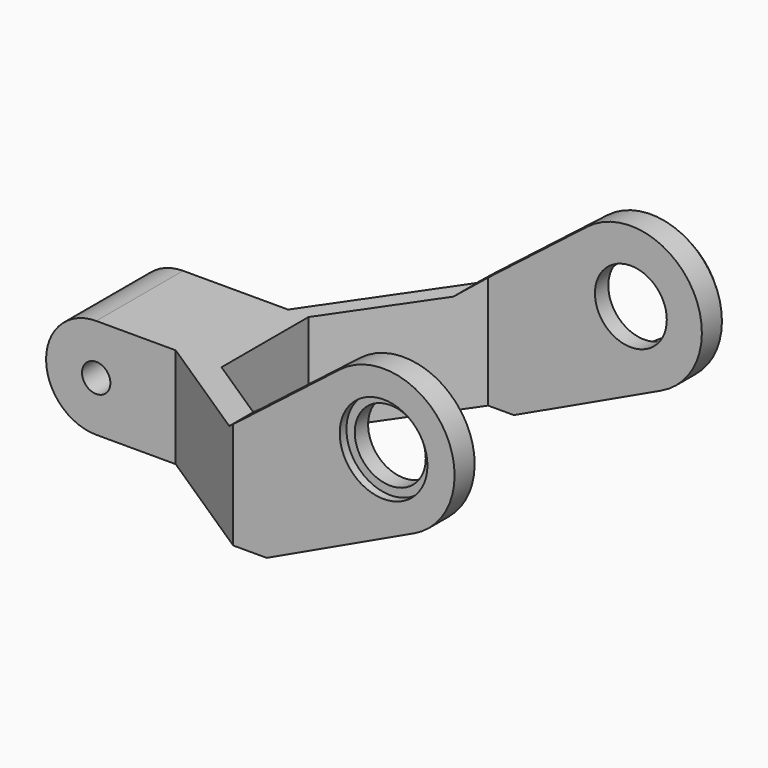
from build123d import *

# Parameters (mm, degrees)
PAD012_DEPTH           = 10
CYLINDER024_R          = 4.3
CYLINDER024_DEPTH      = 14
CYLINDER024_ROLL_ANGLE = 90
CYLINDER017_R          = 4.25
CYLINDER017_DEPTH      = 10
CYLINDER016_R          = 5.25
CYLINDER016_DEPTH      = 10
FUSION009_ROLL_ANGLE   = 90
SKETCH005_R            = 1.7
PAD005_DEPTH           = 50
PAD006_DEPTH           = 40
CHAMFER004_SIZE        = 1


with BuildPart() as pad012:
    # Sketch012 → Pad012 (new body)
    with BuildSketch(Plane(origin=(0, 49, 0), x_dir=(-1, 0, 0), z_dir=(0, 1, 0))):
        with BuildLine():
            ThreePointArc((49.900014, 10.106834), (43.673915, 9.645687), (44.625156, 3.475427))
            Line((44.625156, 3.475427), (60.33289, -7.108383))
            ThreePointArc((60.33289, -7.108383), (64.021726, -6.539695), (63.746037, -2.817476))
            Line((49.900014, 10.106834), (63.746037, -2.817476))
        make_face()
    extrude(amount=PAD012_DEPTH)


with BuildPart() as fusion025:
    # Cylinder024 → Cylinder024 (new body)
    with BuildSketch(Plane.XY):
        Circle(CYLINDER024_R)
    extrude(amount=CYLINDER024_DEPTH)


with BuildPart() as fusion025_1:
    # Cylinder024 roll: moved
    add(fusion025.part.rotate(Axis((0, 0, 0), (1, 0, 0)), CYLINDER024_ROLL_ANGLE))


with BuildPart() as fusion025_2:
    # Cylinder024 placement: moved
    add(fusion025_1.part.moved(Location((-47, 58, 7))))

    # Fusion025: union Pad012
    add(pad012.part)


with BuildPart() as cylinder017:
    # Cylinder017 → Cylinder017 (new body)
    with BuildSketch(Plane.XY.offset(-5)):
        Circle(CYLINDER017_R)
    extrude(amount=CYLINDER017_DEPTH)


with BuildPart() as fusion009:
    # Cylinder016 → Cylinder016 (new body)
    with BuildSketch(Plane.XY):
        Circle(CYLINDER016_R)
    extrude(amount=CYLINDER016_DEPTH)

    # Fusion009: union Cylinder017
    add(cylinder017.part)


with BuildPart() as fusion009_1:
    # Fusion009 roll: moved
    add(fusion009.part.rotate(Axis((0, 0, 0), (1, 0, 0)), FUSION009_ROLL_ANGLE))


with BuildPart() as fusion009_2:
    # Fusion009 placement: moved
    add(fusion009_1.part.moved(Location((-47, 11, 7))))


with BuildPart() as pad005:
    # Sketch005 → Pad005 (new body)
    with BuildSketch(Plane(origin=(0, 55, 0), x_dir=(-1, 0, 0), z_dir=(0, 1, 0))):
        with BuildLine():
            ThreePointArc((52.215569, 13.711769), (39.756321, 11.447371), (43.374568, -0.688059))
            Line((43.374568, -0.688059), (61.000798, -9))
            Line((61.000798, -9), (89.000022, -9))
            ThreePointArc((89.000022, -9), (95, -3), (89.000022, 3))
            Line((66.000242, 3), (89.000022, 3))
            Line((52.215569, 13.711769), (66.000242, 3))
        make_face()
        with Locations((47, 7)):
            Circle(SKETCH005_R, mode=Mode.SUBTRACT)
        with Locations((89, -3)):
            Circle(SKETCH005_R, mode=Mode.SUBTRACT)
    extrude(amount=-PAD005_DEPTH)


with BuildPart() as cut036:
    # Sketch006 → Pad006 (new body)
    with BuildSketch(Plane.XY.offset(-20)):
        Polygon((-102.641426, 32.5), (-77.641426, 32.5), (-65, 51), (-36, 51), (-36, 47), (-64.091855, 47), (-74, 32.5), (-74, 19.5), (-64.091855, 13), (-36, 13), (-36, 10), (-65, 10), (-79.481134, 19.5), (-102.641426, 19.5), align=None)
    extrude(amount=PAD006_DEPTH)

    # Common: intersect Pad005
    add(pad005.part, mode=Mode.INTERSECT)

    # Chamfer004
    chamfer004_edges = [cut036.edges().sort_by_distance(p)[0] for p in [
        (-71.320713, 41.75, -9),
        (-71.820834, 41.018102, 3),
        (-63.000399, 51, -9),
        (-52.187683, 51, -4.844029),
        (-39.756321, 51, 11.447371),
    ]]
    chamfer(chamfer004_edges, length=CHAMFER004_SIZE)

    # Cut013: cut Fusion009
    add(fusion009_2.part, mode=Mode.SUBTRACT)

    # Cut036: cut Fusion025
    add(fusion025_2.part, mode=Mode.SUBTRACT)


solid = cut036.part
